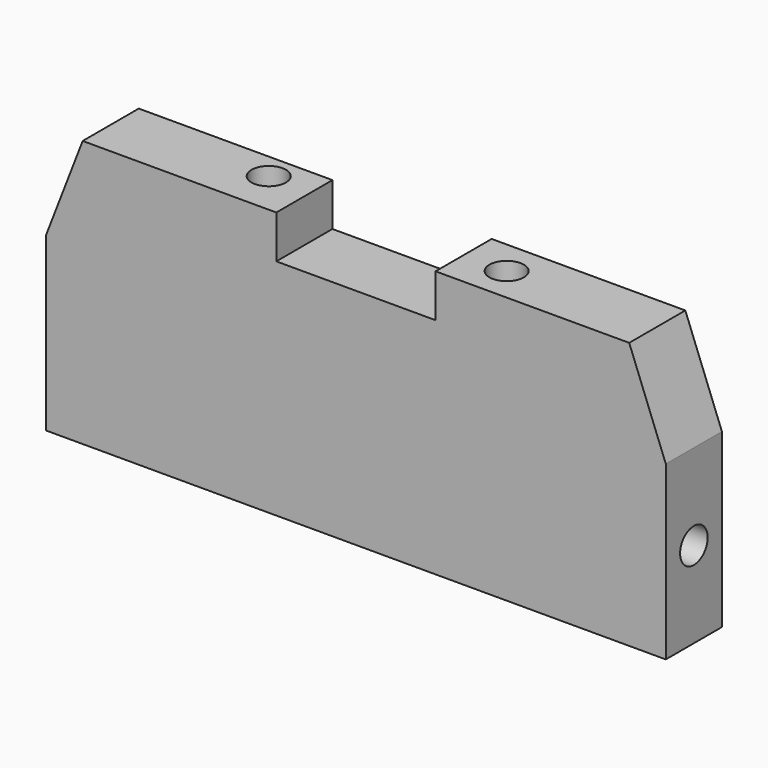
from build123d import *

# Parameters (mm, degrees)
F1_DEPTH = 8.15
F3_D     = 4
F3_DEPTH = 5
F3_TIP   = 1.2017212381
F4_R     = 2
F5_DEPTH = 10
F6_R     = 2
F7_DEPTH = 10


with BuildPart() as f1:
    # F0 (on Front) → F1 (new body)
    with BuildSketch(Plane.XZ):
        Polygon((0, 20), (0, 0), (72, 0), (72, 20), (67.75, 31), (45.25, 31), (45.25, 26), (26.75, 26), (26.75, 31), (4.25, 31), align=None)
    extrude(amount=F1_DEPTH)

    # F3
    with Locations(Plane.XY.offset(31)):
        with Locations((21.75, -3), (50.25, -4.075)):
            Hole(F3_D / 2, depth=F3_DEPTH)
            with Locations((0, 0, -(F3_DEPTH + F3_TIP / 2))):  # 118° drill point
                Cone(0, F3_D / 2, F3_TIP, mode=Mode.SUBTRACT)

    # F4 (on face) → F5 (cut)
    with BuildSketch(Plane.YZ.offset(72)):
        with Locations((-4.075, 10)):
            Circle(F4_R)
    extrude(amount=-F5_DEPTH, mode=Mode.SUBTRACT)

    # F6 (on face) → F7 (cut)
    with BuildSketch(Plane(origin=(0, 0, 0), x_dir=(0, -1, 0), z_dir=(-1, 0, 0))):
        with Locations((4.075, 10)):
            Circle(F6_R)
    extrude(amount=-F7_DEPTH, mode=Mode.SUBTRACT)


solid = f1.part
